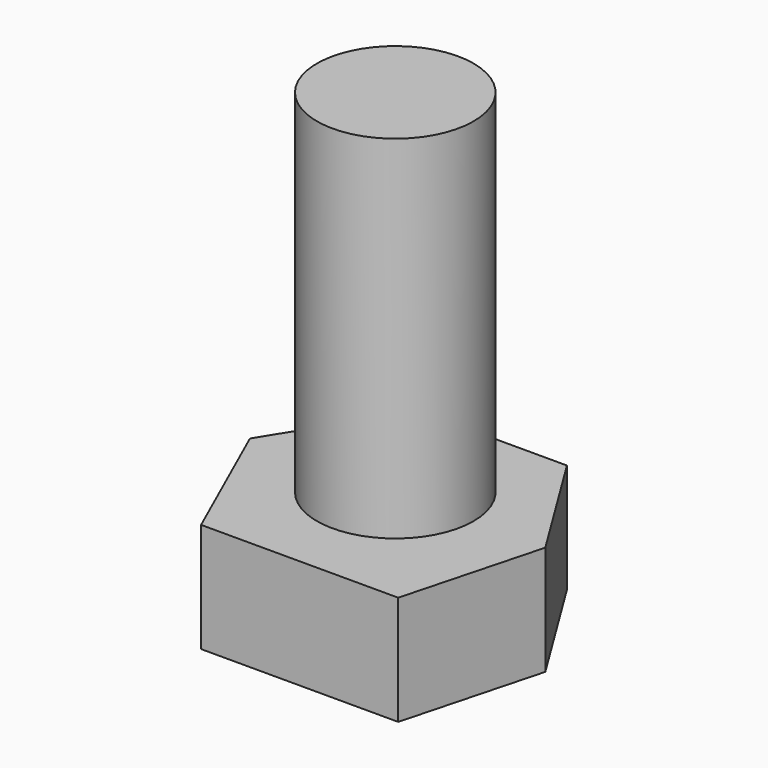
from build123d import *

# Parameters (mm, degrees)
F1_DEPTH = 24.314562
F2_R     = 17.41648
F3_DEPTH = 102.574684


with BuildPart() as f1:
    # F0 (on Top) → F1 (new body)
    with BuildSketch(Plane.XY):
        Polygon((-16.025186, 26.466794), (-32.313049, 0), (-18.656433, -30.649543), (25.181532, -30.649543), (33.363849, 0), (16.999215, 26.466794), align=None)
    extrude(amount=F1_DEPTH)

    # F2 (on Top) → F3 (join)
    with BuildSketch(Plane.XY):
        Circle(F2_R)
    extrude(amount=F3_DEPTH)


solid = f1.part
